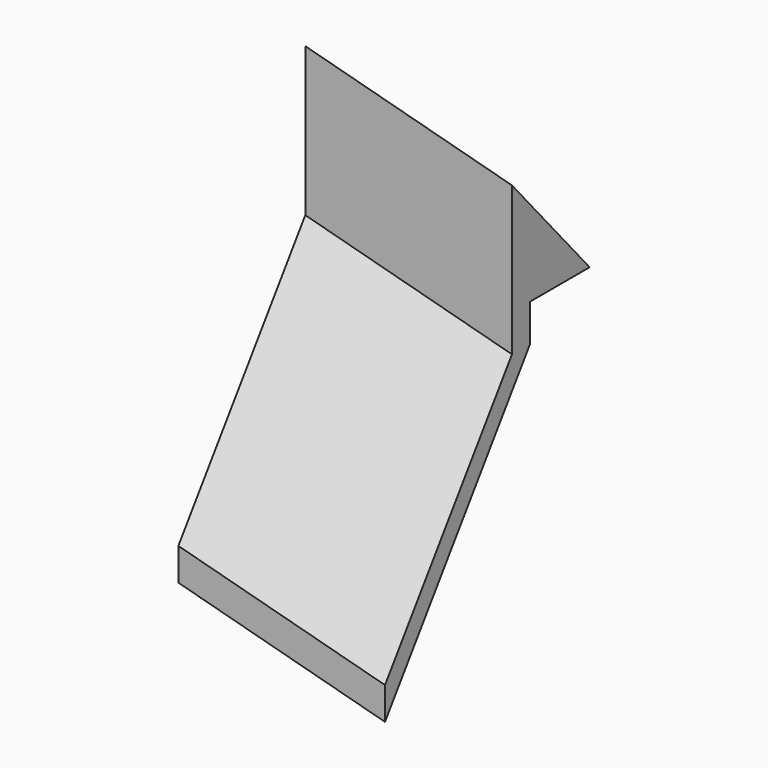
from build123d import *


with BuildPart() as f3:
    # F3: sweep along a path in F2
    with BuildLine(Plane(origin=(0, -1.220775, 0), x_dir=(-1, 0, 0), z_dir=(0, 1, 0))) as f3_path:
        Line((0, 8), (11.108147, 10.976419))
    # F0 (on Right) → F3 (sweep)
    with BuildSketch(Plane.YZ):
        Polygon((-9.750799, -13.925585), (0, 0), (0, 2), (4, 2), (-1.220775, 8), (-1.220775, 2), (-1.220775, 0), (-9.750799, -12.182138), align=None)
    sweep(path=f3_path.line)


solid = f3.part
